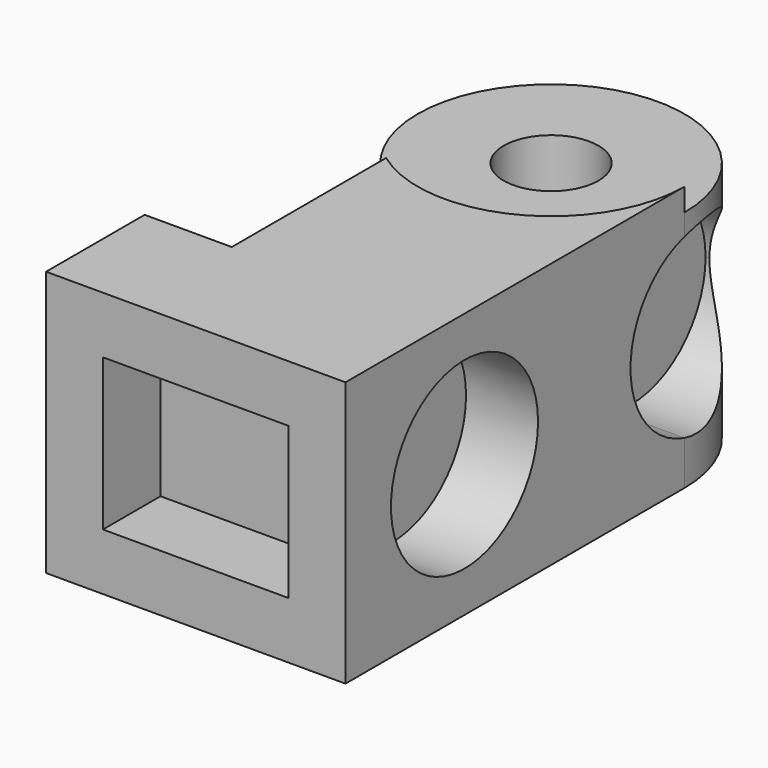
from build123d import *

# Parameters (mm, degrees)
F1_DEPTH = 7
F0_R     = 1.25
F2_DEPTH = 6.4
F3_DEPTH = 2.65
F4_W     = 4.9
F4_H     = 4
F5_DEPTH = 1.9
F6_R     = 2.425
F7_DEPTH = 1.9


with BuildPart() as f1:
    # F0 (on Top) → F1 (new body)
    with BuildSketch(Plane.XY):
        with BuildLine():
            Line((3.52, -11.18), (3.52, 0))
            ThreePointArc((3.52, 0), (1.5919798994, -3.1394266993), (-2.08, -2.8397182959))
            Line((-2.08, -2.8397182959), (-2.08, -7.93))
            Line((-2.08, -7.93), (-4.38, -7.93))
            Line((-4.38, -7.93), (-4.38, -11.18))
            Line((-4.38, -11.18), (0, -11.18))
            Line((0, -11.18), (3.52, -11.18))
        make_face()
    extrude(amount=F1_DEPTH)

    # F0 (on Top) → F2 (join)
    with BuildSketch(Plane.XY):
        with BuildLine():
            ThreePointArc((-2.08, -2.8397182959), (1.5919798994, -3.1394266993), (3.52, 0))
            ThreePointArc((3.52, 0), (-1.5919798994, 3.1394266993), (-2.08, -2.8397182959))
        make_face()
        Circle(F0_R, mode=Mode.SUBTRACT)
    extrude(amount=F2_DEPTH)

    # F0 (on Top) → F3 (join)
    with BuildSketch(Plane.XY):
        Circle(F0_R)
    extrude(amount=F3_DEPTH)

    # F4 (on face) → F5 (cut)
    with BuildSketch(Plane.XZ.offset(11.18)):
        with Locations((-0.43, 3.5)):
            Rectangle(F4_W, F4_H)
    extrude(amount=-F5_DEPTH, mode=Mode.SUBTRACT)

    # F6 (on face) → F7 (cut)
    with BuildSketch(Plane.YZ.offset(3.52)):
        with Locations((-7.255, 3.5)):
            Circle(F6_R)
        with BuildLine():
            ThreePointArc((0, 5.837648391), (-1.78, 3.5), (0, 1.162351609))
            Line((0, 1.162351609), (0, 5.837648391))
        make_face()
        with BuildLine():
            Line((0, 5.837648391), (0, 1.162351609))
            ThreePointArc((0, 1.162351609), (2.1140983629, 1.570654256), (3.07, 3.5))
            ThreePointArc((3.07, 3.5), (2.1140983629, 5.429345744), (0, 5.837648391))
        make_face()
    extrude(amount=-F7_DEPTH, mode=Mode.SUBTRACT)


solid = f1.part
